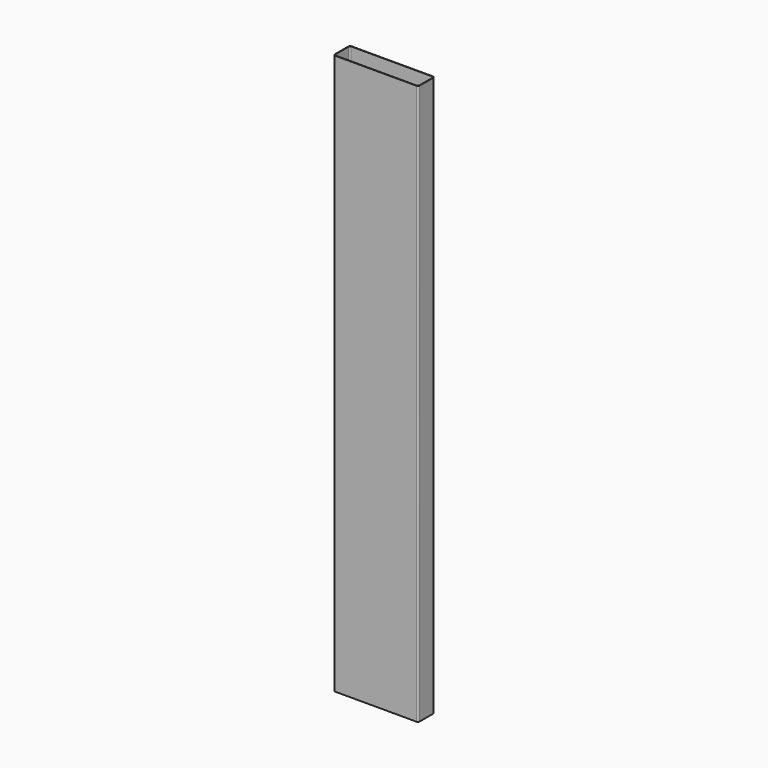
from build123d import *

# Parameters (mm, degrees)
F1_DEPTH      = 1000
F1_DEPTH_BACK = 1000


with BuildPart() as f1:
    # F0 (on Top) → F1 (new body, two sides)
    with BuildSketch(Plane.XY) as f1_sk:
        with BuildLine():
            Line((151.5, -30), (151.5, 30))
            ThreePointArc((151.5, 30), (149.596194, 34.596194), (145, 36.5))
            Line((145, 36.5), (-145, 36.5))
            ThreePointArc((-145, 36.5), (-149.596194, 34.596194), (-151.5, 30))
            Line((-151.5, 30), (-151.5, -30))
            ThreePointArc((-151.5, -30), (-149.596194, -34.596194), (-145, -36.5))
            Line((-145, -36.5), (145, -36.5))
            ThreePointArc((145, -36.5), (149.596194, -34.596194), (151.5, -30))
        make_face()
        with BuildLine():
            ThreePointArc((150, -30), (148.535534, -33.535534), (145, -35))
            Line((145, -35), (-145, -35))
            ThreePointArc((-145, -35), (-148.535534, -33.535534), (-150, -30))
            Line((-150, -30), (-150, 30))
            ThreePointArc((-150, 30), (-148.535534, 33.535534), (-145, 35))
            Line((-145, 35), (145, 35))
            ThreePointArc((145, 35), (148.535534, 33.535534), (150, 30))
            Line((150, 30), (150, -30))
        make_face(mode=Mode.SUBTRACT)
    extrude(amount=F1_DEPTH)
    extrude(f1_sk.sketch, amount=-F1_DEPTH_BACK)


solid = f1.part
